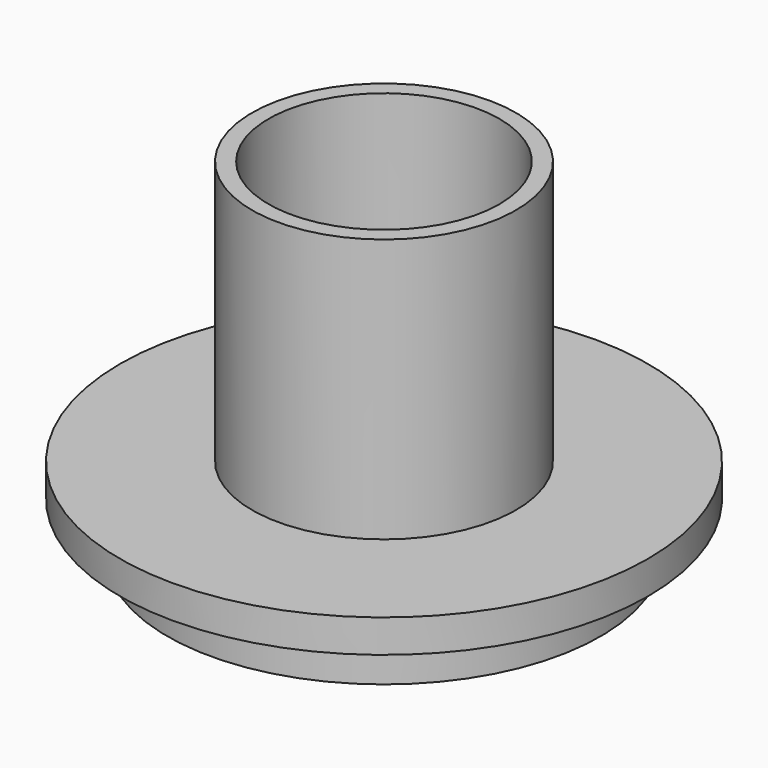
from build123d import *

# Parameters (mm, degrees)
F2_R     = 5.25
F3_DEPTH = 15.801
F4_R     = 5.25
F4_R_2   = 0.785
F5_DEPTH = 2.13


with BuildPart() as f1:
    # F0 (on Right) → F1 (revolve)
    with BuildSketch(Plane.YZ):
        Polygon((0, 13.5), (0, 0), (8.9, 0), (8.9, -2.3), (9.85, -2.3), (9.85, 0), (12, 0), (12, 1.5), (6, 1.5), (6, 13.5), align=None)
    revolve(axis=Axis((0, 0, 6.75), (0, 0, -1)))

    # F2 (on face) → F3 (cut, through all)
    with BuildSketch(Plane.XY.offset(13.5)):
        Circle(F2_R)
    extrude(amount=-F3_DEPTH, mode=Mode.SUBTRACT)

    # F4 (on face) → F5 (join)
    with BuildSketch(Plane(origin=(0, 0, 0), x_dir=(1, 0, 0), z_dir=(0, 0, -1))):
        Circle(F4_R)
        with BuildLine():
            ThreePointArc((0.3498486339, -3.5930079228), (-0.7478164186, -2.6901339379), (0.1550575663, -1.5924688855))
            ThreePointArc((0.1550575663, -1.5924688855), (0.8, -1.3856406461), (1.3015897264, -0.9305182342))
            ThreePointArc((1.3015897264, -0.9305182342), (2.7036325391, -0.6974389531), (2.9367118202, -2.0994817658))
            ThreePointArc((2.9367118202, -2.0994817658), (1.805, -3.1263517077), (0.3498486339, -3.5930079228))
        make_face(mode=Mode.SUBTRACT)
        with BuildLine():
            ThreePointArc((-3.2865604541, -1.493526157), (-3.61, 0), (-3.2865604541, 1.493526157))
            ThreePointArc((-3.2865604541, 1.493526157), (-1.9558161205, 1.9926949848), (-1.4566472927, 0.6619506513))
            ThreePointArc((-1.4566472927, 0.6619506513), (-1.6, 0), (-1.4566472927, -0.6619506513))
            ThreePointArc((-1.4566472927, -0.6619506513), (-1.9558161205, -1.9926949848), (-3.2865604541, -1.493526157))
        make_face(mode=Mode.SUBTRACT)
        Circle(F4_R_2, mode=Mode.SUBTRACT)
        with BuildLine():
            ThreePointArc((0.3498486339, 3.5930079228), (1.805, 3.1263517077), (2.9367118202, 2.0994817658))
            ThreePointArc((2.9367118202, 2.0994817658), (2.7036325391, 0.6974389531), (1.3015897264, 0.9305182342))
            ThreePointArc((1.3015897264, 0.9305182342), (0.8, 1.3856406461), (0.1550575663, 1.5924688855))
            ThreePointArc((0.1550575663, 1.5924688855), (-0.7478164186, 2.6901339379), (0.3498486339, 3.5930079228))
        make_face(mode=Mode.SUBTRACT)
    extrude(amount=-F5_DEPTH)


solid = f1.part
